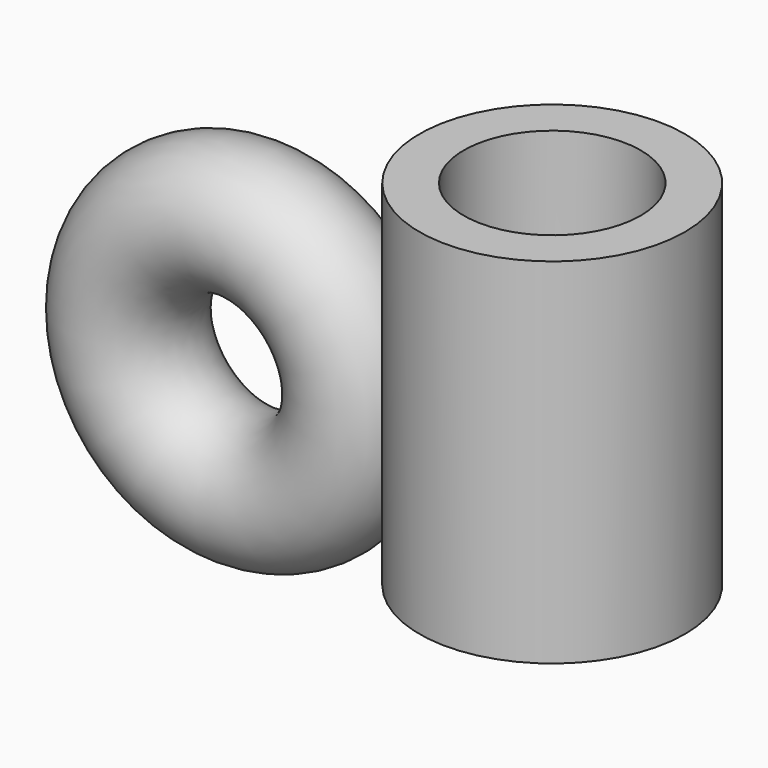
from build123d import *

# Parameters (mm, degrees)
F0_R     = 38.1
F1_DEPTH = 101.6
F2_T     = -12.7
F3_R     = 18.45945


with BuildPart() as f1:
    # F0 (on Top) → F1 (new body)
    with BuildSketch(Plane.XY):
        Circle(F0_R)
    extrude(amount=F1_DEPTH)

    # F2
    f2_openings = [f1.faces().sort_by_distance(p)[0] for p in [
        (0, 0, 101.6),
    ]]
    offset(amount=F2_T, openings=f2_openings)


with BuildPart() as f4:
    # F3 (on Top) → F4 (revolve)
    with BuildSketch(Plane.XY):
        with Locations((-90.492067, 45.78224)):
            Circle(F3_R)
    revolve(axis=Axis((-124.395138, 43.996845, 0), (0, -1, 0)))


solid = Compound([f1.part, f4.part])
